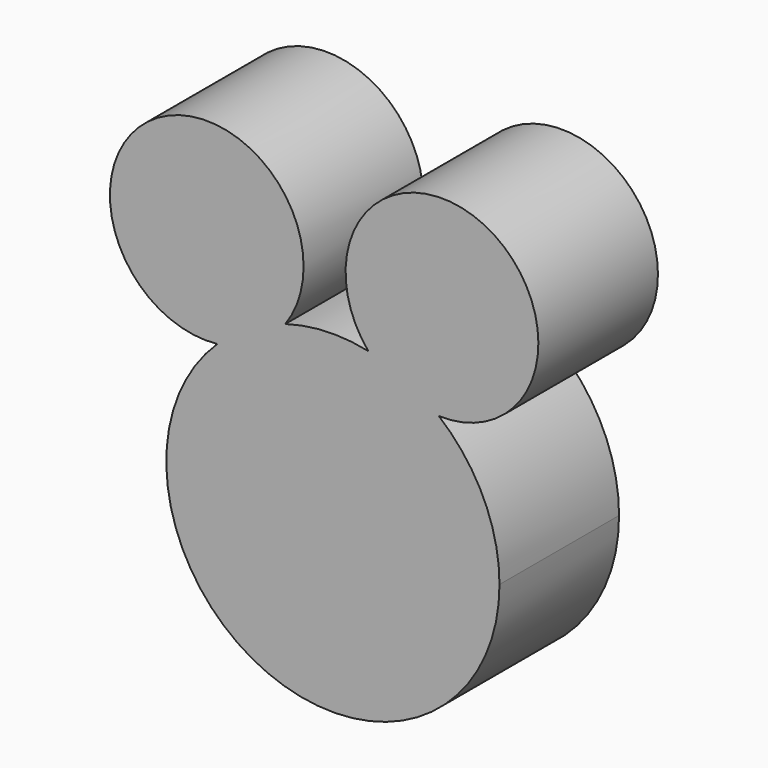
from build123d import *

# Parameters (mm, degrees)
F2_DEPTH = 50.8
F1_R     = 10.802579
F1_R_2   = 10.017442
F3_DEPTH = 25.4


with BuildPart() as f2:
    # F0 (on Front) → F2 (new body)
    with BuildSketch(Plane.XZ):
        with BuildLine():
            ThreePointArc((-84.818284, 4.49832), (-74.075205, 12.619594), (-61.718, 17.973872))
            ThreePointArc((-61.718, 17.973872), (-105.003657, 65.638275), (-84.818284, 4.49832))
        make_face()
        with BuildLine():
            ThreePointArc((-33.519126, 19.040262), (-47.686065, 20.292057), (-61.718, 17.973872))
            ThreePointArc((-61.718, 17.973872), (-74.075205, 12.619594), (-84.818284, 4.49832))
            ThreePointArc((-84.818284, 4.49832), (-67.706115, -88.386562), (11.071378, -36.285371))
            ThreePointArc((11.071378, -36.285371), (5.655705, -12.12097), (-9.555264, 7.420632))
            ThreePointArc((-9.555264, 7.420632), (-20.844259, 14.65953), (-33.519126, 19.040262))
        make_face()
        with BuildLine():
            ThreePointArc((-9.555264, 7.420632), (5.818639, 69.648031), (-33.519126, 19.040262))
            ThreePointArc((-33.519126, 19.040262), (-20.844259, 14.65953), (-9.555264, 7.420632))
        make_face()
    extrude(amount=F2_DEPTH)

    # F1 (on Front) → F3 (cut)
    with BuildSketch(Plane.XZ):
        with Locations((-75.122081, -19.301618)):
            Circle(F1_R)
        with Locations((-25.931325, -18.290848)):
            Circle(F1_R_2)
    extrude(amount=-F3_DEPTH, mode=Mode.SUBTRACT)


solid = f2.part
